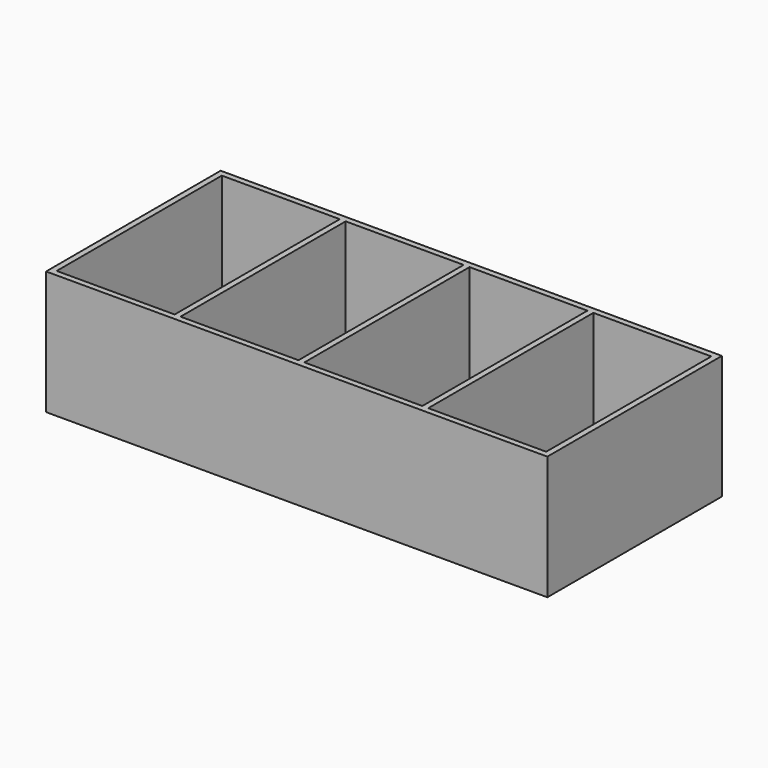
from build123d import *

# Parameters (mm, degrees)
F0_W     = 1.5875
F0_H     = 55.5625
F1_DEPTH = 33.3375
F0_W_2   = 31.75
F2_DEPTH = 1.5875


with BuildPart() as f1:
    # F0 (on Top) → F1 (new body)
    with BuildSketch(Plane.XY):
        Polygon((1.5875, 0), (0, 0), (-31.75, 0), (-33.3375, 0), (-33.3375, -1.5875), (101.6, -1.5875), (101.6, 0), (100.0125, 0), (68.2625, 0), (66.675, 0), (34.925, 0), (33.3375, 0), align=None)
        with Locations((-32.54375, 27.78125)):
            Rectangle(F0_W, F0_H)
        Polygon((-31.75, 55.5625), (0, 55.5625), (1.5875, 55.5625), (33.3375, 55.5625), (34.925, 55.5625), (66.675, 55.5625), (68.2625, 55.5625), (100.0125, 55.5625), (101.6, 55.5625), (101.6, 57.15), (-33.3375, 57.15), (-33.3375, 55.5625), align=None)
        with Locations((100.80625, 27.78125)):
            Rectangle(F0_W, F0_H)
        with Locations((0.79375, 27.78125)):
            Rectangle(F0_W, F0_H)
        with Locations((34.13125, 27.78125)):
            Rectangle(F0_W, F0_H)
        with Locations((67.46875, 27.78125)):
            Rectangle(F0_W, F0_H)
    extrude(amount=F1_DEPTH)

    # F0 (on Top) → F2 (join)
    with BuildSketch(Plane.XY):
        with Locations((-15.875, 27.78125)):
            Rectangle(F0_W_2, F0_H)
        with Locations((17.4625, 27.78125)):
            Rectangle(F0_W_2, F0_H)
        with Locations((84.1375, 27.78125)):
            Rectangle(F0_W_2, F0_H)
        with Locations((50.8, 27.78125)):
            Rectangle(F0_W_2, F0_H)
    extrude(amount=F2_DEPTH)


solid = f1.part
